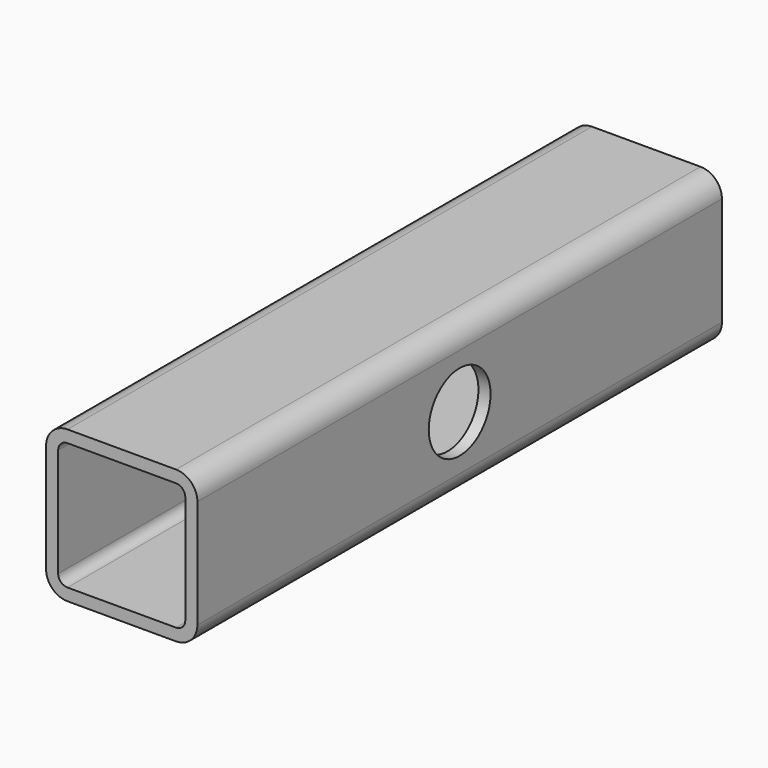
from build123d import *

# Parameters (mm, degrees)
F1_DEPTH = 82.55
F2_R     = 9.7282
F3_DEPTH = 38.101


with BuildPart() as f1:
    # F0 (on Front) → F1 (new body, symmetric)
    with BuildSketch(Plane.XZ):
        with BuildLine():
            ThreePointArc((19.05, 13.6652), (17.472829, 17.472829), (13.6652, 19.05))
            Line((13.6652, 19.05), (-13.6652, 19.05))
            ThreePointArc((-13.6652, 19.05), (-17.472829, 17.472829), (-19.05, 13.6652))
            Line((-19.05, 13.6652), (-19.05, -13.6652))
            ThreePointArc((-19.05, -13.6652), (-17.472829, -17.472829), (-13.6652, -19.05))
            Line((-13.6652, -19.05), (13.6652, -19.05))
            ThreePointArc((13.6652, -19.05), (17.472829, -17.472829), (19.05, -13.6652))
            Line((19.05, -13.6652), (19.05, 13.6652))
        make_face()
        with BuildLine():
            Line((-13.6652, 16.002), (13.6652, 16.002))
            ThreePointArc((13.6652, 16.002), (15.317567, 15.317567), (16.002, 13.6652))
            Line((16.002, 13.6652), (16.002, -13.6652))
            ThreePointArc((16.002, -13.6652), (15.317567, -15.317567), (13.6652, -16.002))
            Line((13.6652, -16.002), (-13.6652, -16.002))
            ThreePointArc((-13.6652, -16.002), (-15.317567, -15.317567), (-16.002, -13.6652))
            Line((-16.002, -13.6652), (-16.002, 13.6652))
            ThreePointArc((-16.002, 13.6652), (-15.317567, 15.317567), (-13.6652, 16.002))
        make_face(mode=Mode.SUBTRACT)
    extrude(amount=F1_DEPTH, both=True)

    # F2 (on face) → F3 (cut, through all)
    with BuildSketch(Plane(origin=(-19.05, 0, 0), x_dir=(0, -1, 0), z_dir=(-1, 0, 0))):
        Circle(F2_R)
    extrude(amount=-F3_DEPTH, mode=Mode.SUBTRACT)


solid = f1.part
